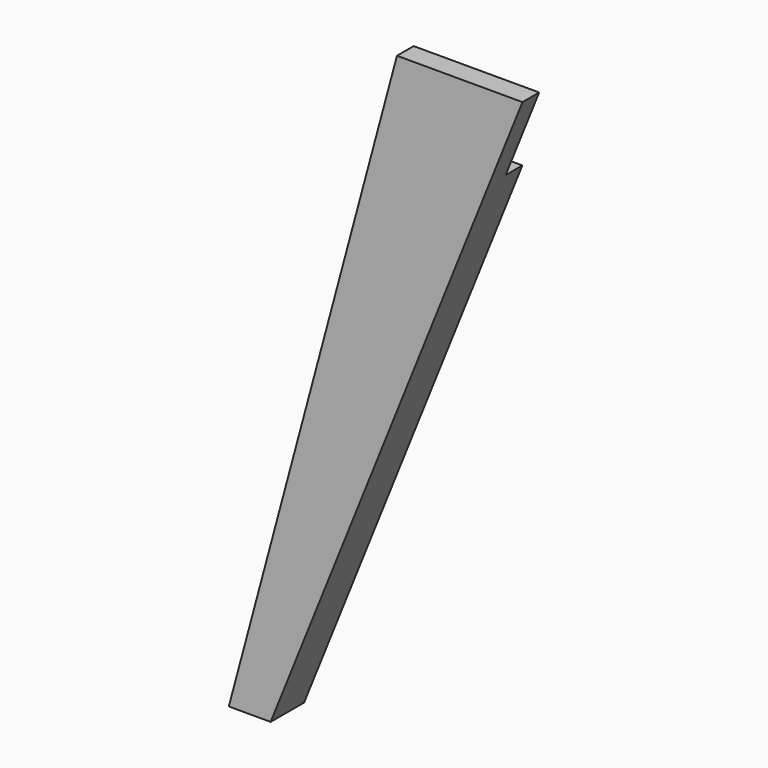
from build123d import *

# Parameters (mm, degrees)
F1_DEPTH = 25.4
F3_DEPTH = 12.7


with BuildPart() as f1:
    # F0 (on Front) → F1 (new body)
    with BuildSketch(Plane.XZ):
        Polygon((102.088642, 381), (0, 0), (25.4, 0), (178.288642, 381), align=None)
    extrude(amount=-F1_DEPTH)

    # F2 (on face) → F3 (cut)
    with BuildSketch(Plane(origin=(0, 25.4, 0), x_dir=(-1, 0, 0), z_dir=(0, 1, 0))):
        Polygon((-88.476823, 330.2), (-102.088642, 381), (-178.288642, 381), (-157.90349, 330.2), align=None)
    extrude(amount=-F3_DEPTH, mode=Mode.SUBTRACT)


solid = f1.part
